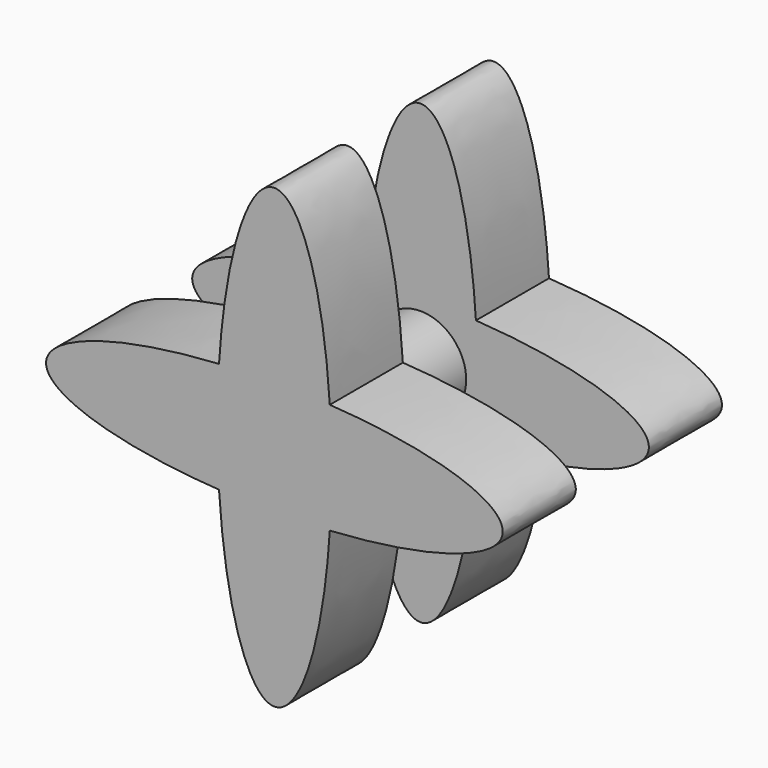
from build123d import *

# Parameters (mm, degrees)
F1_DEPTH = 20
F2_R     = 10
F3_DEPTH = 20
F5_DEPTH = 20


with BuildPart() as f1:
    # F0 (on Front) → F1 (new body)
    with BuildSketch(Plane.XZ):
        with BuildLine():
            add(Edge.make_bspline(
                [(12.1267812518, 12.1267812518), (9.7597050801, 50), (0, 50)],
                knots=[4.9573676435, 4.9573676435, 4.9573676435, 6.2831853072, 6.2831853072, 6.2831853072], degree=2, weights=[1, 0.788205438, 1]))
            add(Edge.make_bspline(
                [(0, 50), (-9.7597050801, 50), (-12.1267812518, 12.1267812518)],
                knots=[0, 0, 0, 1.3258176637, 1.3258176637, 1.3258176637], degree=2, weights=[1, 0.788205438, 1]))
            add(Edge.make_bspline(
                [(12.1267812518, 12.1267812518), (0, 12.8847050801), (-12.1267812518, 12.1267812518)],
                knots=[1.3258176637, 1.3258176637, 1.3258176637, 1.8157749899, 1.8157749899, 1.8157749899], degree=2, weights=[1, 0.9701425001, 1]))
        make_face()
        with BuildLine():
            add(Edge.make_bspline(
                [(12.1267812518, 12.1267812518), (0, 12.8847050801), (-12.1267812518, 12.1267812518)],
                knots=[1.3258176637, 1.3258176637, 1.3258176637, 1.8157749899, 1.8157749899, 1.8157749899], degree=2, weights=[1, 0.9701425001, 1]))
            add(Edge.make_bspline(
                [(-12.1267812518, 12.1267812518), (-12.8847050801, 0), (-12.1267812518, -12.1267812518)],
                knots=[1.3258176637, 1.3258176637, 1.3258176637, 1.8157749899, 1.8157749899, 1.8157749899], degree=2, weights=[1, 0.9701425001, 1]))
            add(Edge.make_bspline(
                [(-12.1267812518, -12.1267812518), (0, -12.8847050801), (12.1267812518, -12.1267812518)],
                knots=[4.4674103173, 4.4674103173, 4.4674103173, 4.9573676435, 4.9573676435, 4.9573676435], degree=2, weights=[1, 0.9701425001, 1]))
            add(Edge.make_bspline(
                [(12.1267812518, -12.1267812518), (12.8847050801, 0), (12.1267812518, 12.1267812518)],
                knots=[4.4674103173, 4.4674103173, 4.4674103173, 4.9573676435, 4.9573676435, 4.9573676435], degree=2, weights=[1, 0.9701425001, 1]))
        make_face()
        with BuildLine():
            add(Edge.make_bspline(
                [(-12.1267812518, 12.1267812518), (-12.8847050801, 0), (-12.1267812518, -12.1267812518)],
                knots=[1.3258176637, 1.3258176637, 1.3258176637, 1.8157749899, 1.8157749899, 1.8157749899], degree=2, weights=[1, 0.9701425001, 1]))
            add(Edge.make_bspline(
                [(-12.1267812518, 12.1267812518), (-50, 9.7597050801), (-50, 0), (-50, -9.7597050801), (-12.1267812518, -12.1267812518)],
                knots=[1.8157749899, 1.8157749899, 1.8157749899, 3.1415926536, 3.1415926536, 4.4674103173, 4.4674103173, 4.4674103173], degree=2, weights=[1, 0.788205438, 1, 0.788205438, 1]))
        make_face()
        with BuildLine():
            add(Edge.make_bspline(
                [(50, 0), (50, 9.7597050801), (12.1267812518, 12.1267812518)],
                knots=[0, 0, 0, 1.3258176637, 1.3258176637, 1.3258176637], degree=2, weights=[1, 0.788205438, 1]))
            add(Edge.make_bspline(
                [(12.1267812518, -12.1267812518), (12.8847050801, 0), (12.1267812518, 12.1267812518)],
                knots=[4.4674103173, 4.4674103173, 4.4674103173, 4.9573676435, 4.9573676435, 4.9573676435], degree=2, weights=[1, 0.9701425001, 1]))
            add(Edge.make_bspline(
                [(12.1267812518, -12.1267812518), (50, -9.7597050801), (50, 0)],
                knots=[4.9573676435, 4.9573676435, 4.9573676435, 6.2831853072, 6.2831853072, 6.2831853072], degree=2, weights=[1, 0.788205438, 1]))
        make_face()
        with BuildLine():
            add(Edge.make_bspline(
                [(-12.1267812518, -12.1267812518), (0, -12.8847050801), (12.1267812518, -12.1267812518)],
                knots=[4.4674103173, 4.4674103173, 4.4674103173, 4.9573676435, 4.9573676435, 4.9573676435], degree=2, weights=[1, 0.9701425001, 1]))
            add(Edge.make_bspline(
                [(-12.1267812518, -12.1267812518), (-9.7597050801, -50), (0, -50), (9.7597050801, -50), (12.1267812518, -12.1267812518)],
                knots=[1.8157749899, 1.8157749899, 1.8157749899, 3.1415926536, 3.1415926536, 4.4674103173, 4.4674103173, 4.4674103173], degree=2, weights=[1, 0.788205438, 1, 0.788205438, 1]))
        make_face()
    extrude(amount=F1_DEPTH)

    # F2 (on face) → F3 (join)
    with BuildSketch(Plane(origin=(0, 0, 0), x_dir=(-1, 0, 0), z_dir=(0, 1, 0))):
        Circle(F2_R)
    extrude(amount=F3_DEPTH)

    # F4 (on face) → F5 (join)
    with BuildSketch(Plane(origin=(0, 20, 0), x_dir=(-1, 0, 0), z_dir=(0, 1, 0))):
        with BuildLine():
            add(Edge.make_bspline(
                [(12.1267812518, 12.1267812518), (9.7597050801, 50), (0, 50)],
                knots=[4.9573676435, 4.9573676435, 4.9573676435, 6.2831853072, 6.2831853072, 6.2831853072], degree=2, weights=[1, 0.788205438, 1]))
            add(Edge.make_bspline(
                [(0, 50), (-9.7597050801, 50), (-12.1267812518, 12.1267812518)],
                knots=[0, 0, 0, 1.3258176637, 1.3258176637, 1.3258176637], degree=2, weights=[1, 0.788205438, 1]))
            add(Edge.make_bspline(
                [(12.1267812518, 12.1267812518), (0, 12.8847050801), (-12.1267812518, 12.1267812518)],
                knots=[1.3258176637, 1.3258176637, 1.3258176637, 1.8157749899, 1.8157749899, 1.8157749899], degree=2, weights=[1, 0.9701425001, 1]))
        make_face()
        with BuildLine():
            add(Edge.make_bspline(
                [(12.1267812518, 12.1267812518), (0, 12.8847050801), (-12.1267812518, 12.1267812518)],
                knots=[1.3258176637, 1.3258176637, 1.3258176637, 1.8157749899, 1.8157749899, 1.8157749899], degree=2, weights=[1, 0.9701425001, 1]))
            add(Edge.make_bspline(
                [(-12.1267812518, 12.1267812518), (-12.8847050801, 0), (-12.1267812518, -12.1267812518)],
                knots=[1.3258176637, 1.3258176637, 1.3258176637, 1.8157749899, 1.8157749899, 1.8157749899], degree=2, weights=[1, 0.9701425001, 1]))
            add(Edge.make_bspline(
                [(-12.1267812518, -12.1267812518), (0, -12.8847050801), (12.1267812518, -12.1267812518)],
                knots=[4.4674103173, 4.4674103173, 4.4674103173, 4.9573676435, 4.9573676435, 4.9573676435], degree=2, weights=[1, 0.9701425001, 1]))
            add(Edge.make_bspline(
                [(12.1267812518, -12.1267812518), (12.8847050801, 0), (12.1267812518, 12.1267812518)],
                knots=[4.4674103173, 4.4674103173, 4.4674103173, 4.9573676435, 4.9573676435, 4.9573676435], degree=2, weights=[1, 0.9701425001, 1]))
        make_face()
        with BuildLine():
            add(Edge.make_bspline(
                [(-12.1267812518, 12.1267812518), (-12.8847050801, 0), (-12.1267812518, -12.1267812518)],
                knots=[1.3258176637, 1.3258176637, 1.3258176637, 1.8157749899, 1.8157749899, 1.8157749899], degree=2, weights=[1, 0.9701425001, 1]))
            add(Edge.make_bspline(
                [(-12.1267812518, 12.1267812518), (-50, 9.7597050801), (-50, 0), (-50, -9.7597050801), (-12.1267812518, -12.1267812518)],
                knots=[1.8157749899, 1.8157749899, 1.8157749899, 3.1415926536, 3.1415926536, 4.4674103173, 4.4674103173, 4.4674103173], degree=2, weights=[1, 0.788205438, 1, 0.788205438, 1]))
        make_face()
        with BuildLine():
            add(Edge.make_bspline(
                [(50, 0), (50, 9.7597050801), (12.1267812518, 12.1267812518)],
                knots=[0, 0, 0, 1.3258176637, 1.3258176637, 1.3258176637], degree=2, weights=[1, 0.788205438, 1]))
            add(Edge.make_bspline(
                [(12.1267812518, -12.1267812518), (12.8847050801, 0), (12.1267812518, 12.1267812518)],
                knots=[4.4674103173, 4.4674103173, 4.4674103173, 4.9573676435, 4.9573676435, 4.9573676435], degree=2, weights=[1, 0.9701425001, 1]))
            add(Edge.make_bspline(
                [(12.1267812518, -12.1267812518), (50, -9.7597050801), (50, 0)],
                knots=[4.9573676435, 4.9573676435, 4.9573676435, 6.2831853072, 6.2831853072, 6.2831853072], degree=2, weights=[1, 0.788205438, 1]))
        make_face()
        with BuildLine():
            add(Edge.make_bspline(
                [(-12.1267812518, -12.1267812518), (0, -12.8847050801), (12.1267812518, -12.1267812518)],
                knots=[4.4674103173, 4.4674103173, 4.4674103173, 4.9573676435, 4.9573676435, 4.9573676435], degree=2, weights=[1, 0.9701425001, 1]))
            add(Edge.make_bspline(
                [(-12.1267812518, -12.1267812518), (-9.7597050801, -50), (0, -50), (9.7597050801, -50), (12.1267812518, -12.1267812518)],
                knots=[1.8157749899, 1.8157749899, 1.8157749899, 3.1415926536, 3.1415926536, 4.4674103173, 4.4674103173, 4.4674103173], degree=2, weights=[1, 0.788205438, 1, 0.788205438, 1]))
        make_face()
    extrude(amount=F5_DEPTH)


solid = f1.part
